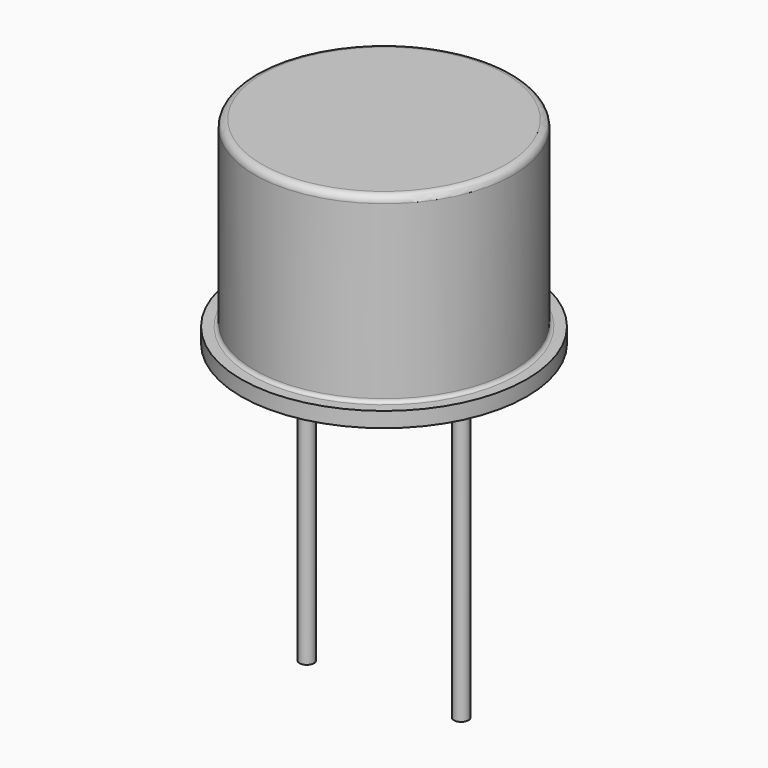
from build123d import *

# Parameters (mm, degrees)
SKETCH_R     = 0.24
PAD_DEPTH    = 10
PAD003_DEPTH = 0.5


with BuildPart() as pad:
    # Sketch → Pad (new body)
    with BuildSketch(Plane.XY.offset(5)):
        Circle(SKETCH_R)
        with Locations((5.08, 0)):
            Circle(SKETCH_R)
    extrude(amount=-PAD_DEPTH)


with BuildPart() as revolution:
    # Sketch003 → Revolution (revolve)
    with BuildSketch(Plane.XZ):
        with BuildLine():
            Line((2.54, 5), (-2.16, 5))
            Line((-2.16, 5), (-2.16, 5.5))
            Line((-2.16, 5.5), (-1.825122, 5.502883))
            ThreePointArc((-1.825122, 5.502883), (-1.743659, 5.537244), (-1.71, 5.619001))
            Line((-1.71, 5.619001), (-1.71, 11.26523))
            ThreePointArc((-1.47523, 11.5), (-1.641237, 11.431237), (-1.71, 11.26523))
            Line((-1.47523, 11.5), (2.54, 11.5))
            Line((2.54, 11.5), (2.54, 5))
        make_face()
    revolve(axis=Axis((2.54, 0, 2.550668), (0, 0, 1)))


with BuildPart() as pad003:
    # Sketch004 → Pad003 (new body)
    with BuildSketch(Plane.XY.offset(5)):
        Polygon((2.844056, 0.304056), (-1.186453, 4.334565), (-1.794565, 3.726453), (2.235944, -0.304056), align=None)
    extrude(amount=PAD003_DEPTH)


solid = Compound([pad.part, revolution.part, pad003.part])
